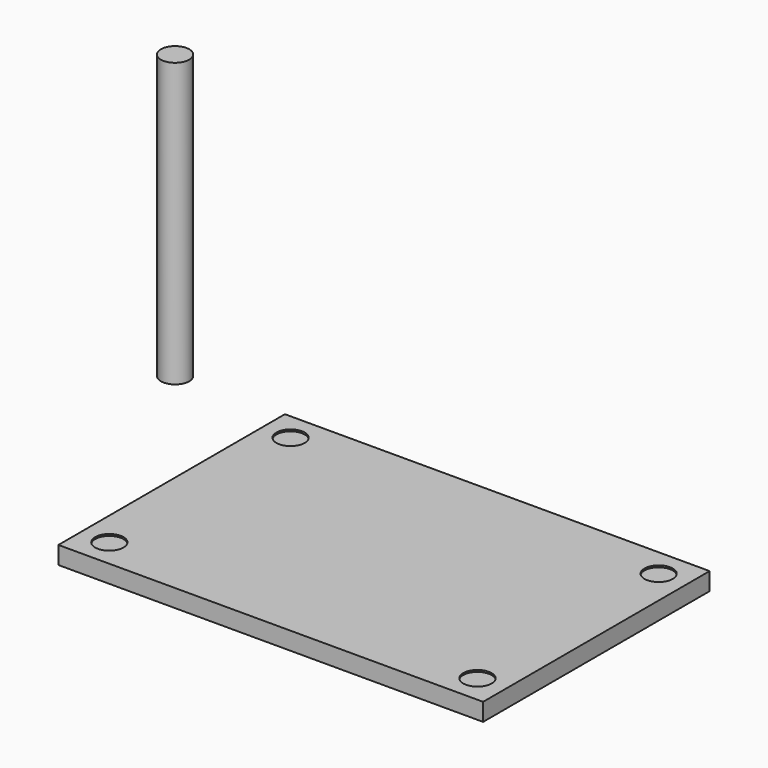
from build123d import *

# Parameters (mm, degrees)
F0_W     = 1200
F0_H     = 800
F1_DEPTH = 50
F2_R     = 40
F3_DEPTH = 800
F4_R     = 40
F5_DEPTH = 5


with BuildPart() as f1:
    # F0 (on Top) → F1 (new body)
    with BuildSketch(Plane.XY):
        Rectangle(F0_W, F0_H)
    extrude(amount=F1_DEPTH)

    # F4 (on face) → F5 (cut)
    with BuildSketch(Plane.XY.offset(50)):
        with Locations((-520, 320)):
            Circle(F4_R)
        with Locations((-520, -320)):
            Circle(F4_R)
        with Locations((520, 320)):
            Circle(F4_R)
        with Locations((520, -320)):
            Circle(F4_R)
    extrude(amount=-F5_DEPTH, mode=Mode.SUBTRACT)


with BuildPart() as f3:
    # F2 (on face) → F3 (new body)
    with BuildSketch(Plane.XY.offset(50)):
        with Locations((-902.969241, 390.80438)):
            Circle(F2_R)
    extrude(amount=F3_DEPTH)


solid = Compound([f1.part, f3.part])
